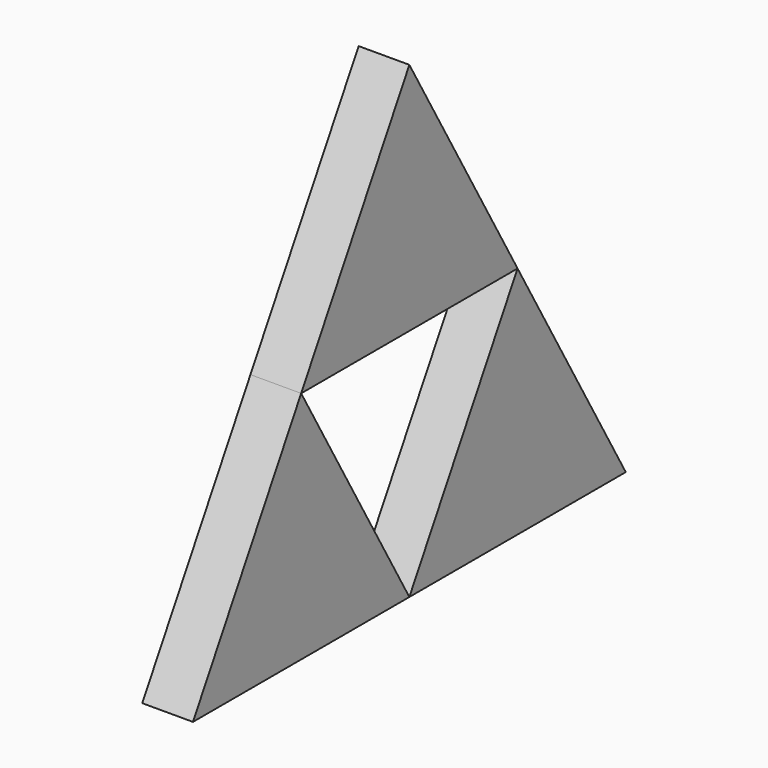
from build123d import *

# Parameters (mm, degrees)
F1_DEPTH = 0.75
F3_DEPTH = 0.75


with BuildPart() as f1:
    # F0 (on Right) → F1 (new body)
    with BuildSketch(Plane.YZ):
        Polygon((-4, 6.9282032303), (-6, 3.4641016151), (-2, 3.4641016151), align=None)
        Polygon((-4, 0), (-6, 3.4641016151), (-8, 0), align=None)
        Polygon((-2, 3.4641016151), (-6, 3.4641016151), (-4, 0), align=None)
        Polygon((0, 0), (-2, 3.4641016151), (-4, 0), align=None)
    extrude(amount=F1_DEPTH)

    # F2 (on face) → F3 (cut, through all)
    with BuildSketch(Plane.YZ.offset(0.75)):
        Polygon((-6, 3.4641016151), (-4, 0), (-2, 3.4641016151), align=None)
    extrude(amount=-F3_DEPTH, mode=Mode.SUBTRACT)


solid = f1.part
